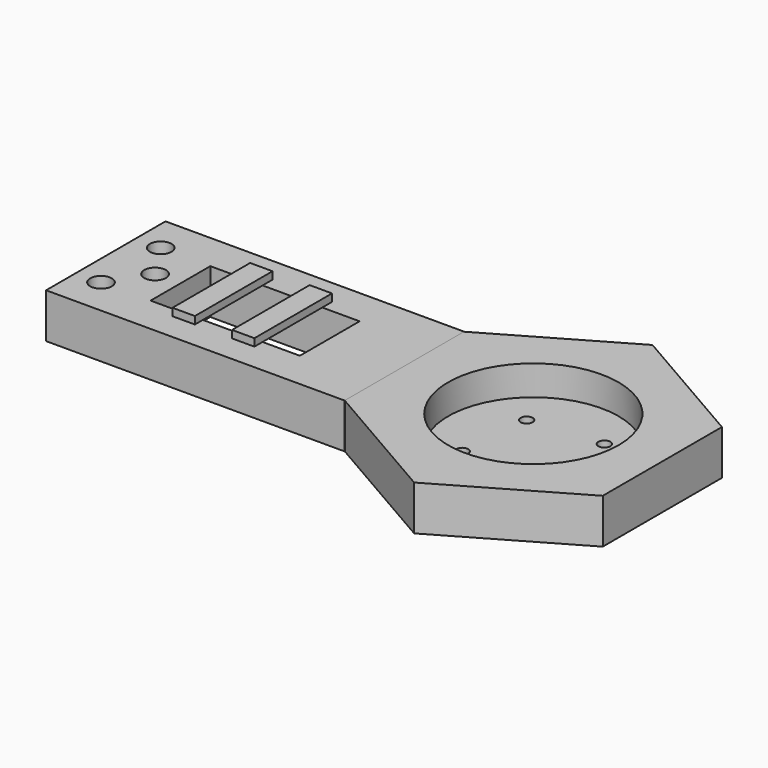
from build123d import *

# Parameters (mm, degrees)
F0_W      = 50.8
F0_H      = 25.4
F1_DEPTH  = 7.62
F3_DEPTH  = 7.62
F4_W      = 25.4
F4_H      = 12.7
F5_DEPTH  = 7.621
F6_R      = 14.5
F7_DEPTH  = 5.08
F9_R      = 1.025
F13_DEPTH = 2.541
F10_R     = 1.025
F14_DEPTH = 2.541
F11_R     = 1.025
F15_DEPTH = 2.541
F12_R     = 1.025
F16_DEPTH = 2.541
F17_W     = 3.81
F17_H     = 16.51
F18_DEPTH = 1.27
F19_R     = 1.8415
F20_DEPTH = 7.621


with BuildPart() as f1:
    # F0 (on Top) → F1 (new body)
    with BuildSketch(Plane.XY):
        with Locations((25.4, 0)):
            Rectangle(F0_W, F0_H)
    extrude(amount=F1_DEPTH)

    # F4 (on face) → F5 (cut, through all)
    with BuildSketch(Plane.XY.offset(7.62)):
        with Locations((25.4, 0)):
            Rectangle(F4_W, F4_H)
    extrude(amount=-F5_DEPTH, mode=Mode.SUBTRACT)

    # F17 (on face) → F18 (join)
    with BuildSketch(Plane.XY.offset(7.62)):
        with Locations((19.685, 0.213849)):
            Rectangle(F17_W, F17_H)
        with Locations((29.845, 0.173433)):
            Rectangle(F17_W, F17_H)
    extrude(amount=F18_DEPTH)

    # F19 (on face) → F20 (cut, through all)
    with BuildSketch(Plane.XY.offset(7.62)):
        with Locations((4.26742, 6.35)):
            Circle(F19_R)
        with Locations((4.26742, -6.35)):
            Circle(F19_R)
        with Locations((8.38222, 0)):
            Circle(F19_R)
    extrude(amount=-F20_DEPTH, mode=Mode.SUBTRACT)


with BuildPart() as f3:
    # F2 (on Top) → F3 (new body)
    with BuildSketch(Plane.XY):
        Polygon((94.692336, -12.672174), (94.692336, 12.672174), (72.743488, 25.344348), (50.794639, 12.672174), (50.794639, -12.672174), (72.743488, -25.344348), align=None)
    extrude(amount=F3_DEPTH)

    # F6 (on face) → F7 (cut)
    with BuildSketch(Plane.XY.offset(7.62)):
        with Locations((72.743488, 0)):
            Circle(F6_R)
    extrude(amount=-F7_DEPTH, mode=Mode.SUBTRACT)

    # F9 (on face) → F13 (cut, through all)
    with BuildSketch(Plane.XY.offset(2.54)):
        with Locations((67.086555, 5.656938)):
            Circle(F9_R)
    extrude(amount=-F13_DEPTH, mode=Mode.SUBTRACT)

    # F10 (on face) → F14 (cut, through all)
    with BuildSketch(Plane.XY.offset(2.54)):
        with Locations((79.460986, 6.717544)):
            Circle(F10_R)
    extrude(amount=-F14_DEPTH, mode=Mode.SUBTRACT)

    # F11 (on face) → F15 (cut, through all)
    with BuildSketch(Plane.XY.offset(2.54)):
        with Locations((78.400277, -5.656807)):
            Circle(F11_R)
    extrude(amount=-F15_DEPTH, mode=Mode.SUBTRACT)

    # F12 (on face) → F16 (cut, through all)
    with BuildSketch(Plane.XY.offset(2.54)):
        with Locations((66.025883, -6.717487)):
            Circle(F12_R)
    extrude(amount=-F16_DEPTH, mode=Mode.SUBTRACT)


solid = Compound([f1.part, f3.part])
